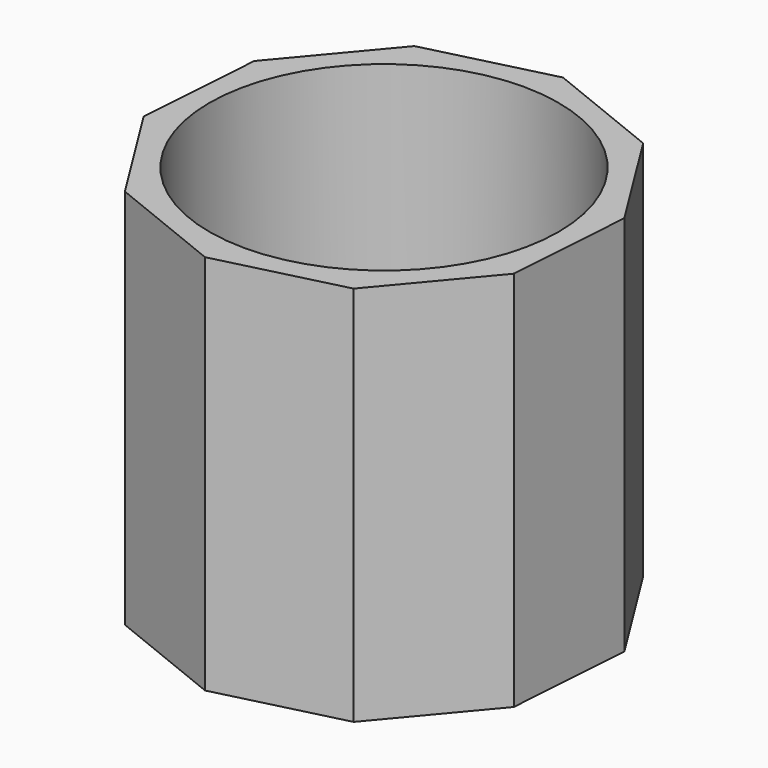
from build123d import *

# Parameters (mm, degrees)
F2_DEPTH = 88.9
F3_R     = 40.697857
F4_DEPTH = 83.312


with BuildPart() as f2:
    # F1 (on face) → F2 (new body)
    with BuildSketch(Plane.XY):
        Polygon((25.532047, -40.773313), (44.621812, -17.978942), (46.667561, 11.682773), (30.887888, 36.882066), (3.310092, 47.993663), (-25.532047, 40.773313), (-44.621812, 17.978942), (-46.667561, -11.682773), (-30.887888, -36.882066), (-3.310092, -47.993663), align=None)
    extrude(amount=F2_DEPTH)

    # F3 (on face) → F4 (cut)
    with BuildSketch(Plane.XY.offset(88.9)):
        Circle(F3_R)
    extrude(amount=-F4_DEPTH, mode=Mode.SUBTRACT)


solid = f2.part
